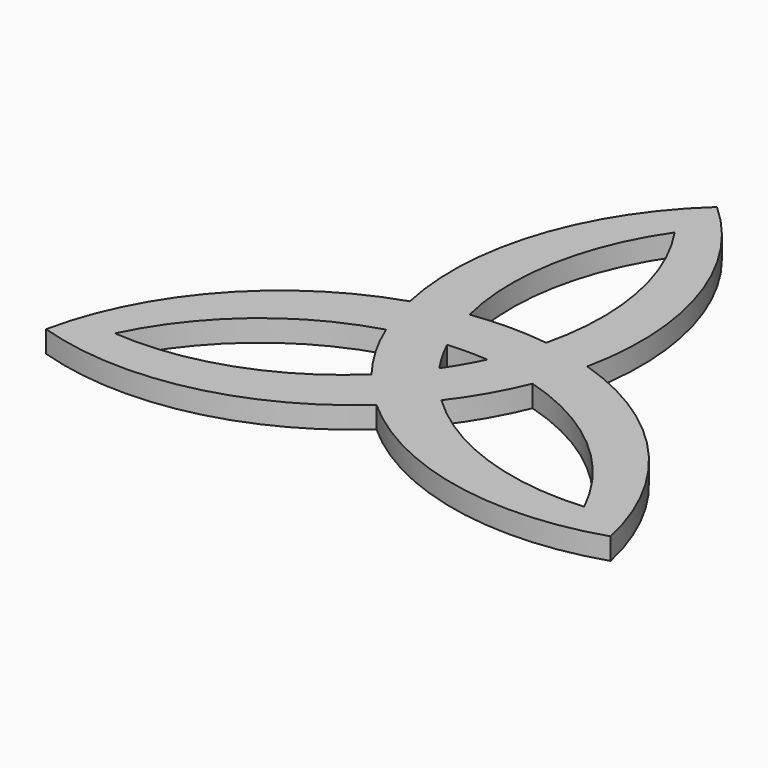
from build123d import *

# Parameters (mm, degrees)
F1_DEPTH = 5


with BuildPart() as f1:
    # F0 (on Top) → F1 (new body)
    with BuildSketch(Plane.XY):
        with BuildLine():
            ThreePointArc((-20.450265, 11.721728), (-49.263895, -7.044436), (-64.834149, -37.703225))
            ThreePointArc((-64.834149, -37.703225), (-30.486848, -39.333288), (0.073818, -23.571313))
            ThreePointArc((0.073818, -23.571313), (-4.187438, -19.383573), (-8.055196, -14.829903))
            ThreePointArc((-8.055196, -14.829903), (-29.341813, -27.947505), (-54.126588, -31.25))
            ThreePointArc((-54.126588, -31.25), (-38.890534, -11.450938), (-16.91194, 0.426839))
            ThreePointArc((-16.91194, 0.426839), (-10.835462, 1.873102), (-4.641555, 2.679803))
            ThreePointArc((-4.641555, 2.679803), (0, 2.859606), (4.641555, 2.679803))
            ThreePointArc((4.641555, 2.679803), (7.039885, 8.447234), (8.825623, 14.43275))
            ThreePointArc((8.825623, 14.43275), (0.003681, 15.000066), (-8.815474, 14.390956))
            ThreePointArc((-8.815474, 14.390956), (-14.692948, 13.318214), (-20.450265, 11.721728))
        make_face()
        with BuildLine():
            ThreePointArc((20.376447, 11.849585), (18.531287, 46.186002), (-0.234877, 74.999632))
            ThreePointArc((-0.234877, 74.999632), (-18.820202, 46.069029), (-20.450265, 11.721728))
            ThreePointArc((-20.450265, 11.721728), (-14.692948, 13.318214), (-8.815474, 14.390956))
            ThreePointArc((-8.815474, 14.390956), (-9.532343, 39.384508), (0, 62.5))
            ThreePointArc((0, 62.5), (9.528464, 39.405659), (8.825623, 14.43275))
            ThreePointArc((8.825623, 14.43275), (7.039885, 8.447234), (4.641555, 2.679803))
            ThreePointArc((4.641555, 2.679803), (2.476491, -1.429803), (0, -5.359606))
            ThreePointArc((0, -5.359606), (3.795577, -10.320337), (8.086316, -14.859589))
            ThreePointArc((8.086316, -14.859589), (12.988598, -7.503221), (16.87067, 0.438947))
            ThreePointArc((16.87067, 0.438947), (18.880386, 6.065359), (20.376447, 11.849585))
        make_face()
        with BuildLine():
            ThreePointArc((0.073818, -23.571313), (30.732608, -39.141567), (65.069025, -37.296407))
            ThreePointArc((65.069025, -37.296407), (49.30705, -6.735741), (20.376447, 11.849585))
            ThreePointArc((20.376447, 11.849585), (18.880386, 6.065359), (16.87067, 0.438947))
            ThreePointArc((16.87067, 0.438947), (38.874156, -11.437002), (54.126588, -31.25))
            ThreePointArc((54.126588, -31.25), (29.36207, -27.954721), (8.086316, -14.859589))
            ThreePointArc((8.086316, -14.859589), (3.795577, -10.320337), (0, -5.359606))
            ThreePointArc((0, -5.359606), (-2.476491, -1.429803), (-4.641555, 2.679803))
            ThreePointArc((-4.641555, 2.679803), (-10.835462, 1.873102), (-16.91194, 0.426839))
            ThreePointArc((-16.91194, 0.426839), (-12.992278, -7.496845), (-8.055196, -14.829903))
            ThreePointArc((-8.055196, -14.829903), (-4.187438, -19.383573), (0.073818, -23.571313))
        make_face()
    extrude(amount=F1_DEPTH)


solid = f1.part
